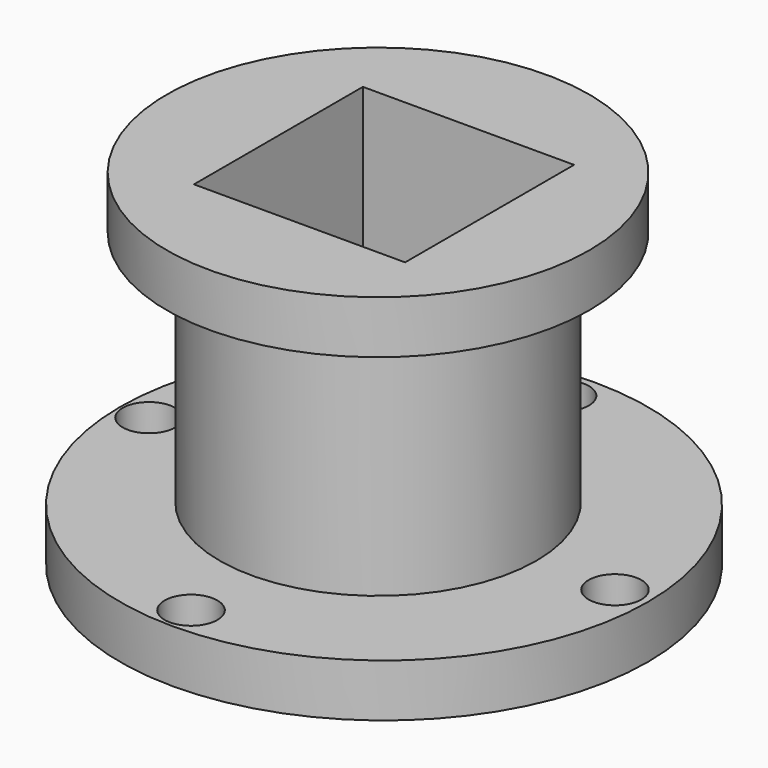
from build123d import *

# Parameters (mm, degrees)
F0_R      = 63.5
F1_DEPTH  = 12.7
F2_R      = 38.1
F3_DEPTH  = 57.15
F4_R      = 50.8
F5_DEPTH  = 12.7
F6_R      = 6.35
F7_DEPTH  = 25.4
F8_R      = 6.35
F9_DEPTH  = 25.4
F10_R     = 6.35
F11_DEPTH = 25.4
F12_R     = 6.35
F13_DEPTH = 25.4
F14_W     = 50.8
F14_H     = 50.8
F15_DEPTH = 101.6


with BuildPart() as f1:
    # F0 (on Top) → F1 (new body)
    with BuildSketch(Plane.XY):
        with Locations((1.4321604976, 0)):
            Circle(F0_R)
    extrude(amount=F1_DEPTH)

    # F2 (on face) → F3 (join)
    with BuildSketch(Plane.XY.offset(12.7)):
        Circle(F2_R)
    extrude(amount=F3_DEPTH)

    # F4 (on face) → F5 (join)
    with BuildSketch(Plane.XY.offset(69.85)):
        Circle(F4_R)
    extrude(amount=F5_DEPTH)

    # F6 (on face) → F7 (cut)
    with BuildSketch(Plane(origin=(0, 0, 0), x_dir=(1, 0, 0), z_dir=(0, 0, -1))):
        with Locations((0, -55.4723255336)):
            Circle(F6_R)
    extrude(amount=-F7_DEPTH, mode=Mode.SUBTRACT)

    # F8 (on face) → F9 (cut)
    with BuildSketch(Plane.XY.offset(12.7)):
        with Locations((56.9999702275, 0)):
            Circle(F8_R)
    extrude(amount=-F9_DEPTH, mode=Mode.SUBTRACT)

    # F10 (on face) → F11 (cut)
    with BuildSketch(Plane(origin=(0, 0, 0), x_dir=(1, 0, 0), z_dir=(0, 0, -1))):
        with Locations((0, 56.2361478806)):
            Circle(F10_R)
    extrude(amount=-F11_DEPTH, mode=Mode.SUBTRACT)

    # F12 (on face) → F13 (cut)
    with BuildSketch(Plane(origin=(0, 0, 0), x_dir=(1, 0, 0), z_dir=(0, 0, -1))):
        with Locations((-55.0904199481, 0)):
            Circle(F12_R)
    extrude(amount=-F13_DEPTH, mode=Mode.SUBTRACT)

    # F14 (on face) → F15 (cut)
    with BuildSketch(Plane.XY.offset(82.55)):
        with Locations((1.4321604976, 0)):
            Rectangle(F14_W, F14_H)
    extrude(amount=-F15_DEPTH, mode=Mode.SUBTRACT)


solid = f1.part
